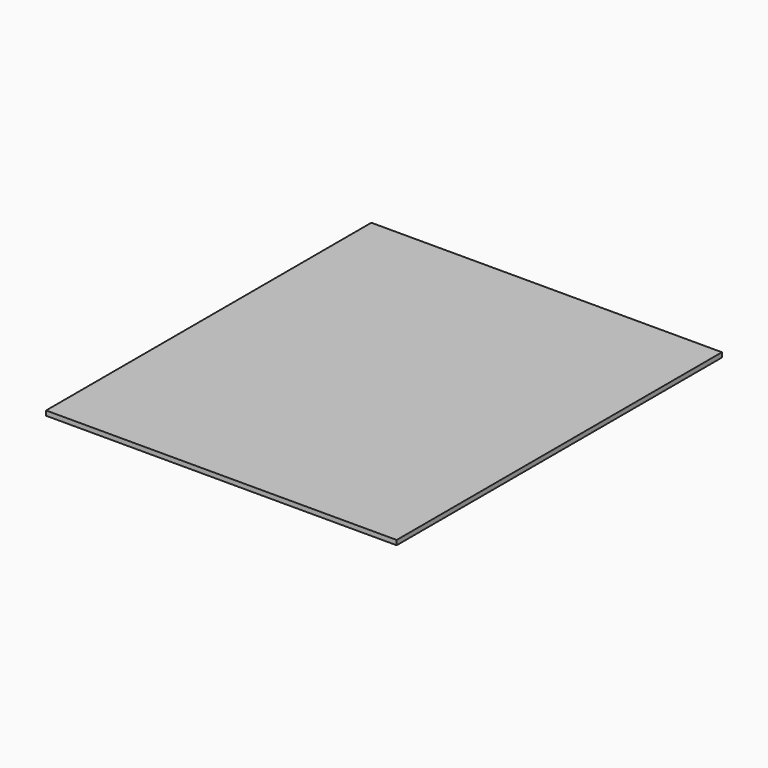
from build123d import *

# Parameters (mm, degrees)
SKETCH_W      = 447.675
SKETCH_H      = 519.1252
EXTRUDE_DEPTH = 5.9944


with BuildPart() as part:
    # Sketch → Extrude (new body)
    with BuildSketch(Plane.XY):
        with Locations((223.8375, 259.5626)):
            Rectangle(SKETCH_W, SKETCH_H)
    extrude(amount=EXTRUDE_DEPTH)


solid = part.part
